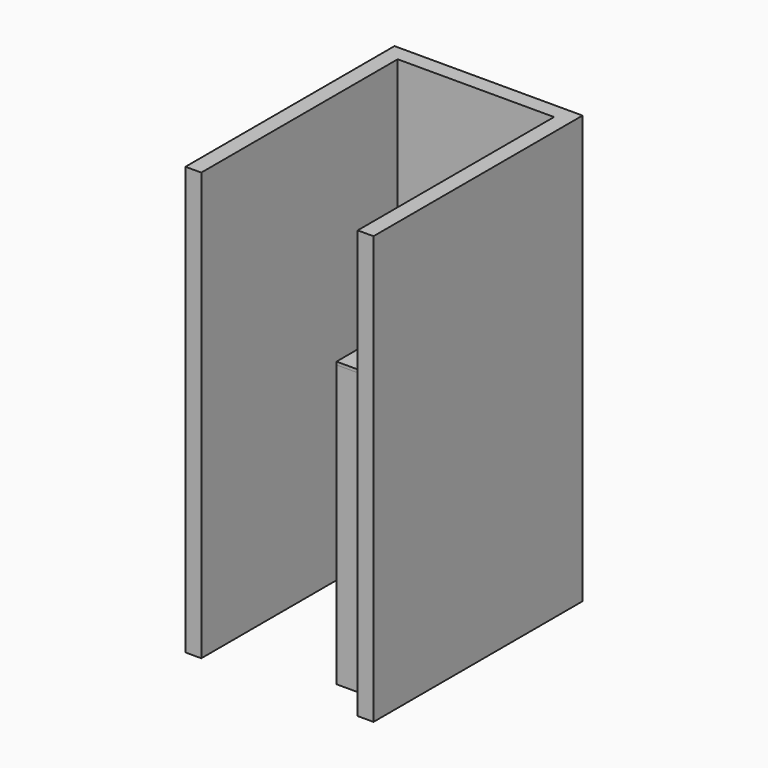
from build123d import *

# Parameters (mm, degrees)
F1_DEPTH  = 2743.2
F2_W      = 19.05
F2_H      = 292.1
F3_DEPTH  = 1803.4
F4_W      = 393.7
F4_H      = 292.1
F5_DEPTH  = 19.05
F6_W      = 298.45
F6_H      = 19.05
F7_DEPTH  = 1803.4
F8_W      = 298.45
F8_H      = 762
F9_DEPTH  = 19.05
F11_DEPTH = 19.05


with BuildPart() as f1:
    # F0 (on Top) → F1 (new body)
    with BuildSketch(Plane.XY):
        Polygon((0, 0), (0, 1574.8), (1003.3, 1574.8), (1003.3, 0), (1104.9, 0), (1104.9, 1676.4), (-101.6, 1676.4), (-101.6, 0), align=None)
    extrude(amount=F1_DEPTH)


with BuildPart() as f3:
    # F2 (on Top) → F3 (new body)
    with BuildSketch(Plane.XY):
        with Locations((9.525, 1428.75)):
            Rectangle(F2_W, F2_H)
        with Locations((384.175, 1428.75)):
            Rectangle(F2_W, F2_H)
    extrude(amount=F3_DEPTH)


with BuildPart() as f5:
    # F4 (on face) → F5 (new body)
    with BuildSketch(Plane.XY.offset(1803.4)):
        with Locations((196.85, 1428.75)):
            Rectangle(F4_W, F4_H)
    extrude(amount=F5_DEPTH)


with BuildPart() as f7:
    # F6 (on Top) → F7 (new body)
    with BuildSketch(Plane.XY):
        with Locations((854.075, 955.675)):
            Rectangle(F6_W, F6_H)
        with Locations((854.075, 212.725)):
            Rectangle(F6_W, F6_H)
    extrude(amount=F7_DEPTH)


with BuildPart() as f9:
    # F8 (on face) → F9 (new body)
    with BuildSketch(Plane.XY.offset(1803.4)):
        with Locations((854.075, 584.2)):
            Rectangle(F8_W, F8_H)
    extrude(amount=F9_DEPTH)


with BuildPart() as f11:
    # F10 (on face) → F11 (new body)
    with BuildSketch(Plane.XY.offset(1822.45)):
        Polygon((393.7, 1574.8), (393.7, 1282.7), (704.85, 965.2), (1003.3, 965.2), (1003.3, 1574.8), align=None)
    extrude(amount=-F11_DEPTH)


with BuildPart() as f12_1:
    # F12: copy of F11
    add(f11.part.moved(Location((0, 0, -1059.18))))


with BuildPart() as f13_1:
    # F13: copy of F12_1
    add(f12_1.part.moved(Location((0, 0, 355.6))))


with BuildPart() as f14_1:
    # F14: copy of F13_1
    add(f13_1.part.moved(Location((0, 0, 355.6))))


solid = Compound([f1.part, f3.part, f5.part, f7.part, f9.part, f11.part, f12_1.part, f13_1.part, f14_1.part])
